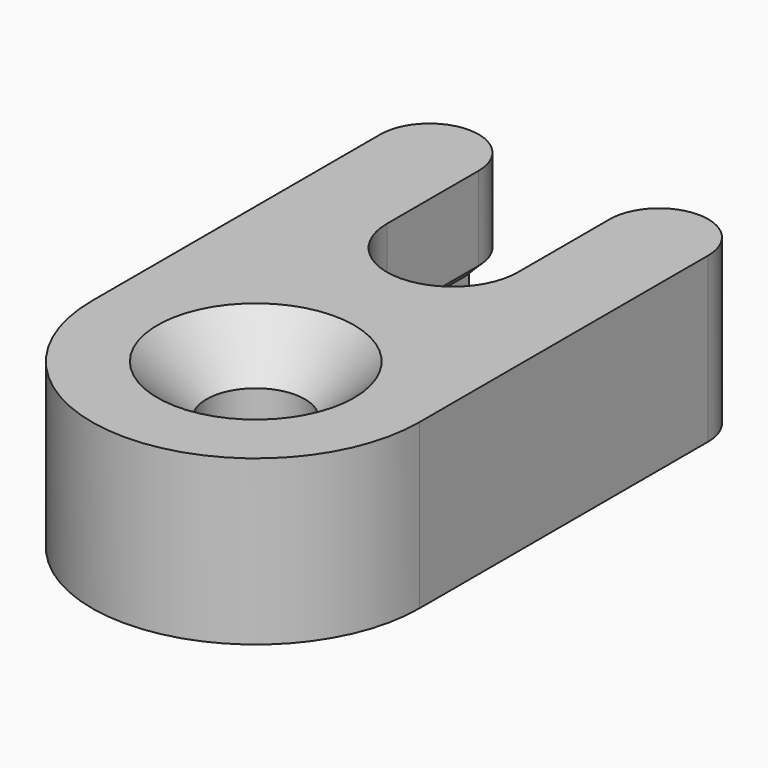
from build123d import *

# Parameters (mm, degrees)
CYLINDER_R       = 1.5
CYLINDER_DEPTH   = 10
EXTRUDE001_DEPTH = 2
EXTRUDE_DEPTH    = 5
CHAMFER_SIZE     = 0.45
CHAMFER001_SIZE  = 1.5


with BuildPart() as cylinder:
    # Cylinder → Cylinder (new body)
    with BuildSketch(Plane.XY.offset(-2)):
        Circle(CYLINDER_R)
    extrude(amount=CYLINDER_DEPTH)


with BuildPart() as extrude001:
    # Sketch001 → Extrude001 (new body)
    with BuildSketch(Plane.XY):
        with BuildLine():
            ThreePointArc((3.5, 13.5), (0, 17), (-3.5, 13.5))
            Line((-3.5, 13.5), (-3.5, 8.5))
            ThreePointArc((-3.5, 8.5), (0, 5), (3.5, 8.5))
            Line((3.5, 13.5), (3.5, 8.5))
        make_face()
    extrude(amount=EXTRUDE001_DEPTH)


with BuildPart() as obj1:
    # Sketch → Extrude (new body)
    with BuildSketch(Plane.XY):
        with BuildLine():
            Line((-5, 11), (-5, 0))
            ThreePointArc((-5, 0), (0, -5), (5, 0))
            Line((5, 11), (5, 0))
            ThreePointArc((5, 11), (3.5, 12.5), (2, 11))
            Line((2, 11), (2, 7.5))
            ThreePointArc((-2, 7.5), (0, 5.5), (2, 7.5))
            Line((-2, 11), (-2, 7.5))
            ThreePointArc((-2, 11), (-3.5, 12.5), (-5, 11))
        make_face()
    extrude(amount=EXTRUDE_DEPTH)

    # Cut: cut Extrude001
    add(extrude001.part, mode=Mode.SUBTRACT)

    # Chamfer
    chamfer_edges = [obj1.edges().sort_by_distance(p)[0] for p in [
        (-2.43934, 12.06066, 2),
        (-2, 9.25, 2),
        (2, 9.25, 2),
        (2.43934, 12.06066, 2),
    ]]
    chamfer(chamfer_edges, length=CHAMFER_SIZE)

    # Cut001: cut Cylinder
    add(cylinder.part, mode=Mode.SUBTRACT)

    # Chamfer001
    chamfer001_edges = [obj1.edges().sort_by_distance(p)[0] for p in [
        (-1.5, 0, 5),
    ]]
    chamfer(chamfer001_edges, length=CHAMFER001_SIZE)


solid = obj1.part
